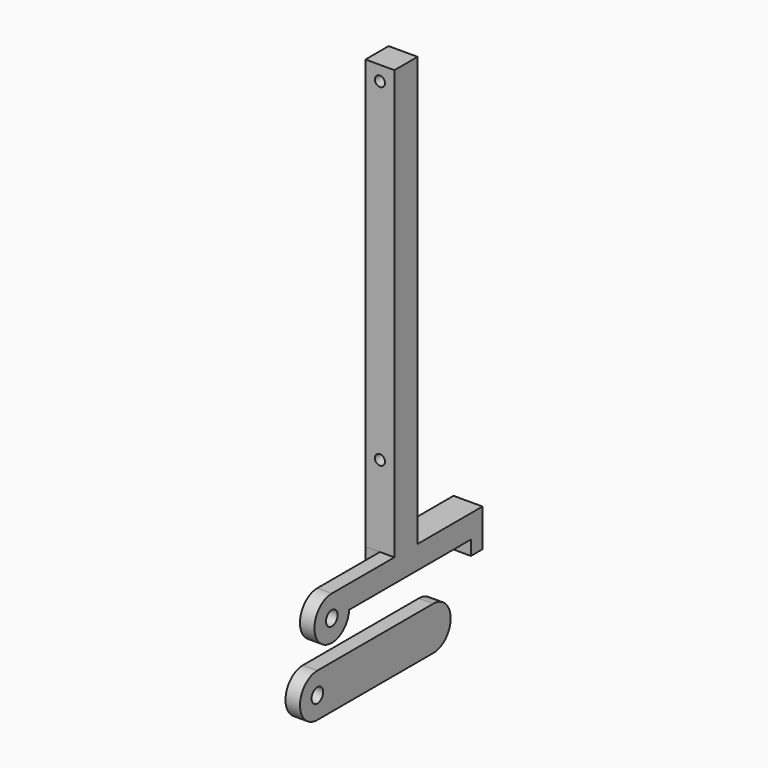
from build123d import *

# Parameters (mm, degrees)
SKETCH_R        = 2.5
PAD_DEPTH       = 10
SKETCH001_W     = 54.878879
SKETCH001_H     = 28.603614
POCKET_DEPTH    = 5
SKETCH002_R     = 1.75
POCKET001_DEPTH = 100
SKETCH003_R     = 2.5
PAD001_DEPTH    = 5


with BuildPart() as obj1:
    # Sketch → Pad (new body)
    with BuildSketch(Plane.YZ):
        with BuildLine():
            Line((34.483315, 156), (44.483315, 156))
            Line((44.483315, 156), (44.483315, 8))
            Line((44.483315, 8), (72.483315, 8))
            Line((72.483315, 8), (72.483315, -5))
            Line((72.483315, -5), (67.483315, -5))
            Line((67.483315, -5), (67.483315, 0))
            Line((14.96663, 0), (67.483315, 0))
            ThreePointArc((7.483315, 8), (2.006089, -4.623475), (14.96663, 0))
            Line((7.483315, 8), (34.483315, 8))
            Line((34.483315, 8), (34.483315, 156))
        make_face()
        with Locations((7.483315, 0.5)):
            Circle(SKETCH_R, mode=Mode.SUBTRACT)
    extrude(amount=PAD_DEPTH)

    # Sketch001 → Pocket (cut)
    with BuildSketch(Plane.YZ):
        with Locations((7.043875, 0.484823)):
            Rectangle(SKETCH001_W, SKETCH001_H)
    extrude(amount=POCKET_DEPTH, mode=Mode.SUBTRACT)

    # Sketch002 → Pocket001 (cut)
    with BuildSketch(Plane.XZ):
        with Locations((5, 151)):
            Circle(SKETCH002_R)
        with Locations((5, 36)):
            Circle(SKETCH002_R)
    extrude(amount=-POCKET001_DEPTH, mode=Mode.SUBTRACT)


with BuildPart() as obj2:
    # Sketch003 → Pad001 (new body)
    with BuildSketch(Plane.YZ):
        with BuildLine():
            ThreePointArc((7.5, -17.060146), (0, -24.560146), (7.5, -32.060146))
            Line((7.5, -32.060146), (57.5, -32.060146))
            ThreePointArc((57.5, -32.060146), (65, -24.560146), (57.5, -17.060146))
            Line((7.5, -17.060146), (57.5, -17.060146))
        make_face()
        with Locations((7.5, -24.560146)):
            Circle(SKETCH003_R, mode=Mode.SUBTRACT)
    extrude(amount=PAD001_DEPTH)


solid = Compound([obj1.part, obj2.part])
